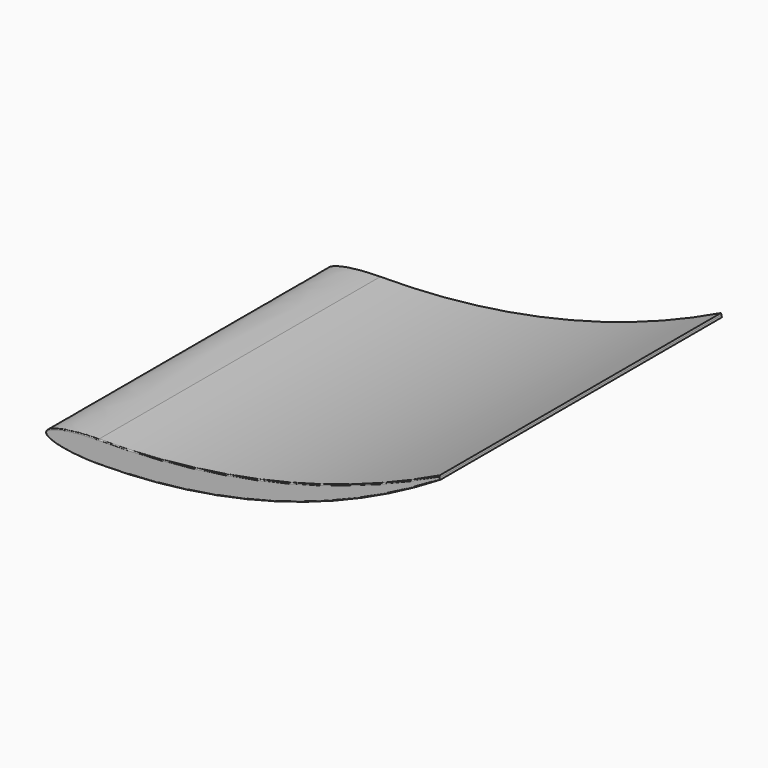
from build123d import *

# Parameters (mm, degrees)
F1_DEPTH = 5080
F2_R     = 12.7


with BuildPart() as f1:
    # F0 (on Front) → F1 (new body)
    with BuildSketch(Plane.XZ):
        with BuildLine():
            ThreePointArc((5086.9094941625, 1295.4), (2695.7410257625, 446.6177730519), (174.7788962786, 158.75))
            add(Edge.make_bspline(
                [(174.7788962786, 158.75), (-587.2211037214, 158.75), (-587.2211037214, 0), (-587.2211037214, -158.75), (174.7788962786, -158.75)],
                knots=[4.7123889804, 4.7123889804, 4.7123889804, 6.2831853072, 6.2831853072, 7.853981634, 7.853981634, 7.853981634], degree=2, weights=[1, 0.7071067812, 1, 0.7071067812, 1]))
            ThreePointArc((174.7788962786, -158.75), (2735.4160354086, 198.9330221497), (5100.0259977616, 1244.6))
            Line((5100.0259977616, 1244.6), (5093.467745962, 1270))
            Line((5093.467745962, 1270), (5086.9094941625, 1295.4))
        make_face()
    extrude(amount=-F1_DEPTH)

    # F2
    f2_edges = [f1.edges().sort_by_distance(p)[0] for p in [
        (2695.741026, 0, 446.617773),
        (-587.221104, 0, 0),
        (2735.416035, 0, 198.933022),
    ]]
    fillet(f2_edges, radius=F2_R)


with BuildPart() as f3_1:
    # F3: copy of F1
    add(f1.part)


with BuildPart() as f5_1:
    # F5: copy of F1
    add(f1.part.moved(Location((0, 0, 993.14))))


solid = f1.part
